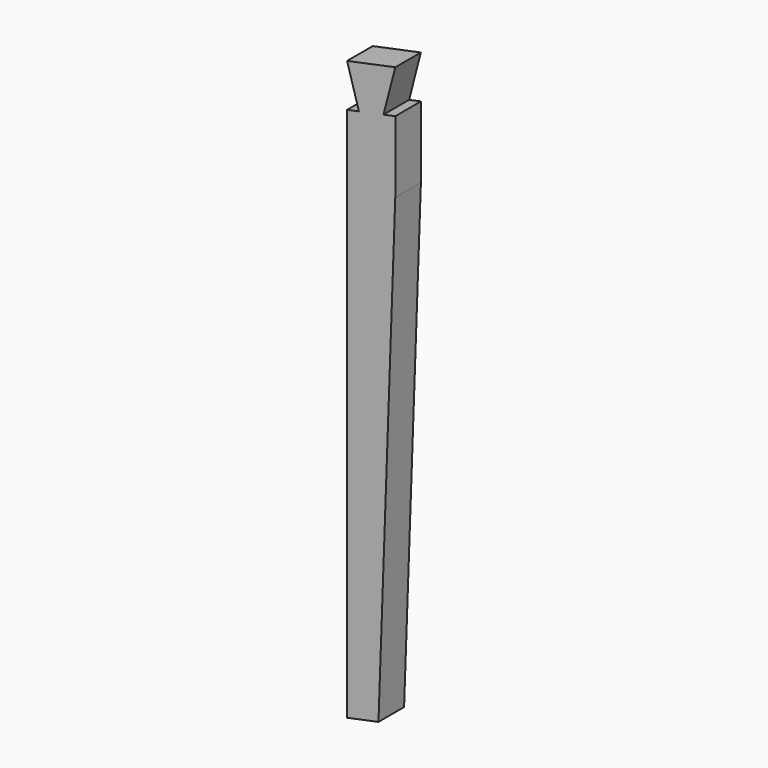
from build123d import *

# Parameters (mm, degrees)
F1_DEPTH = 33.782
F3_DEPTH = 33.783
F5_DEPTH = 33.783


with BuildPart() as f1:
    # F0 (on Front) → F1 (new body)
    with BuildSketch(Plane.XZ):
        Polygon((25.4, -304.8), (25.4, 304.8), (-25.4, 294.216667), (-25.4, -315.383333), align=None)
    extrude(amount=F1_DEPTH)

    # F2 (on face) → F3 (cut, through all)
    with BuildSketch(Plane.XZ.offset(33.782)):
        Polygon((25.4, 184.15), (7.671917, -308.493351), (25.4, -304.8), align=None)
    extrude(amount=-F3_DEPTH, mode=Mode.SUBTRACT)

    # F4 (on face) → F5 (cut, through all)
    with BuildSketch(Plane.XZ.offset(33.782)):
        Polygon((-25.4, 294.216667), (-25.4, 248.812286), (-12.966949, 251.402505), align=None)
        Polygon((25.4, 259.395619), (25.4, 304.8), (12.966949, 256.8054), align=None)
    extrude(amount=-F5_DEPTH, mode=Mode.SUBTRACT)


solid = f1.part
